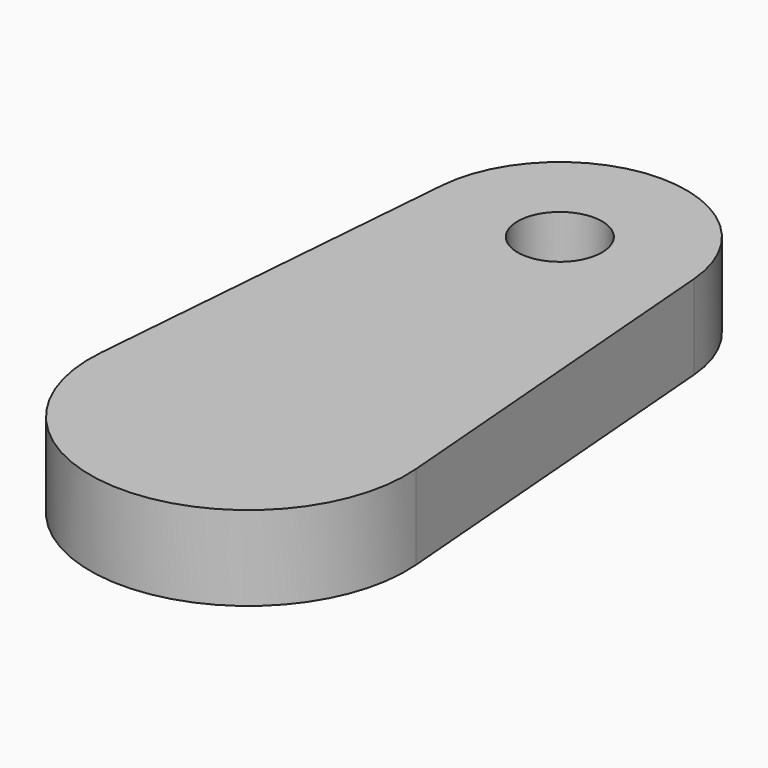
from build123d import *

# Parameters (mm, degrees)
F0_R     = 2
F1_DEPTH = 4


with BuildPart() as f1:
    # F0 (on Top) → F1 (new body)
    with BuildSketch(Plane.XY):
        with BuildLine():
            Line((7.463004, -10.566037), (5.980481, 7.768706))
            ThreePointArc((5.980481, 7.768706), (0, 13.285132), (-5.980481, 7.768706))
            Line((-5.980481, 7.768706), (-7.463004, -10.566037))
            ThreePointArc((-7.463004, -10.566037), (0, -18.656846), (7.463004, -10.566037))
        make_face()
        with Locations((0, 7.285132)):
            Circle(F0_R, mode=Mode.SUBTRACT)
    extrude(amount=F1_DEPTH)


solid = f1.part
